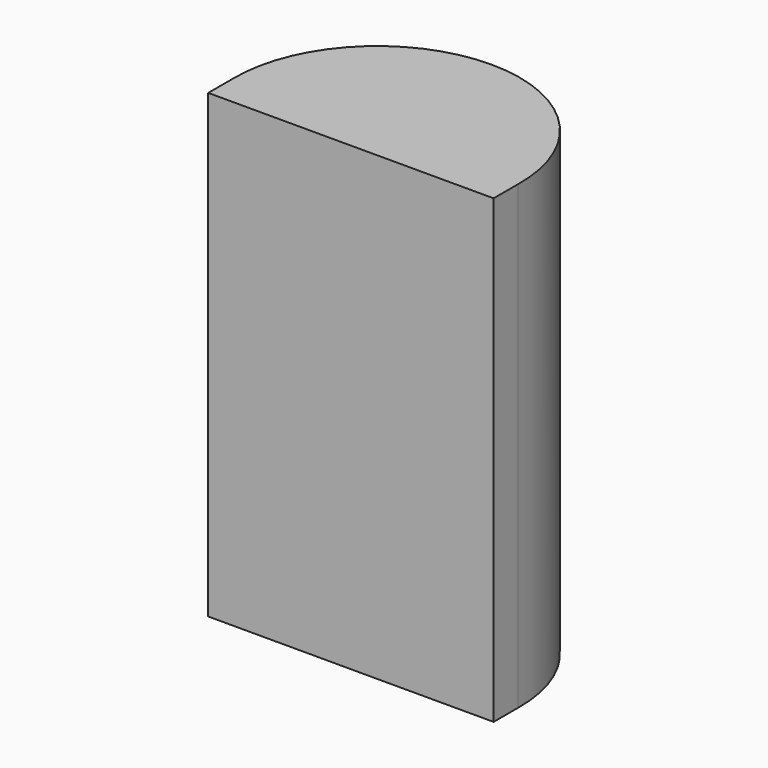
from build123d import *

# Parameters (mm, degrees)
F1_DEPTH = 133.35


with BuildPart() as f1:
    # F0 (on Top) → F1 (new body)
    with BuildSketch(Plane.XY):
        with BuildLine():
            Line((-0.059343, 41.325617), (-0.059343, -9.474383))
            Line((-0.059343, -9.474383), (41.215657, -9.474383))
            Line((41.215657, -9.474383), (41.215657, -0.584383))
            ThreePointArc((41.215657, -0.584383), (29.351853, 29.011377), (-0.059343, 41.325617))
        make_face()
    extrude(amount=F1_DEPTH)

    # F2: F1 across face


with BuildPart() as f1_1:
    add(f1.part)
    add(f1.part.mirror(Plane(origin=(-0.059343, 15.925617, 66.675), x_dir=(0, -1, 0), z_dir=(-1, 0, 0))))


solid = f1_1.part
